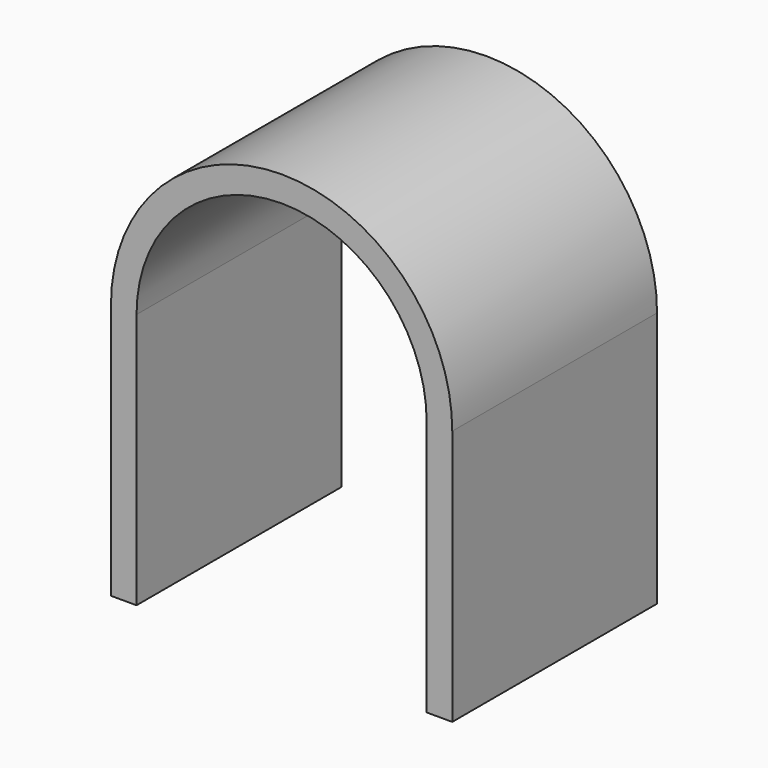
from build123d import *

# Parameters (mm, degrees)
F1_DEPTH = 15


with BuildPart() as f1:
    # F0 (on Front) → F1 (new body)
    with BuildSketch(Plane.XZ):
        with BuildLine():
            Line((10, -15), (10, 0))
            ThreePointArc((10, 0), (0, 10), (-10, 0))
            Line((-10, 0), (-10, -15))
            Line((-10, -15), (-8.5, -15))
            Line((-8.5, -15), (-8.5, 0))
            ThreePointArc((-8.5, 0), (0, 8.5), (8.5, 0))
            Line((8.5, 0), (8.5, -15))
            Line((8.5, -15), (10, -15))
        make_face()
    extrude(amount=F1_DEPTH)


solid = f1.part
